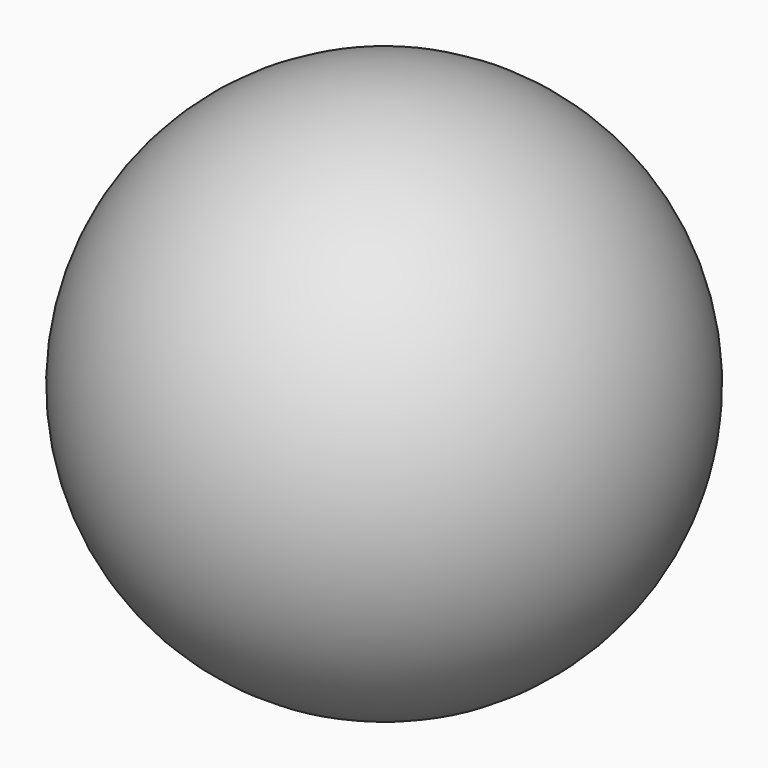
from build123d import *

# Parameters (mm, degrees)
F4_R     = 3.175
F5_DEPTH = 9.525


with BuildPart() as f2:
    # F0 (on Front) → F2 (revolve)
    with BuildSketch(Plane.XZ):
        with BuildLine():
            Line((0, -9.525), (0, 9.525))
            ThreePointArc((0, 9.525), (-9.525, 0), (0, -9.525))
        make_face()
    revolve(axis=Axis((0, 0, 0), (0, 0, 1)))

    # F4 (on offset) → F5 (cut)
    with BuildSketch(Plane.XY.offset(-10.16)):
        Circle(F4_R)
    extrude(amount=F5_DEPTH, mode=Mode.SUBTRACT)


solid = f2.part
